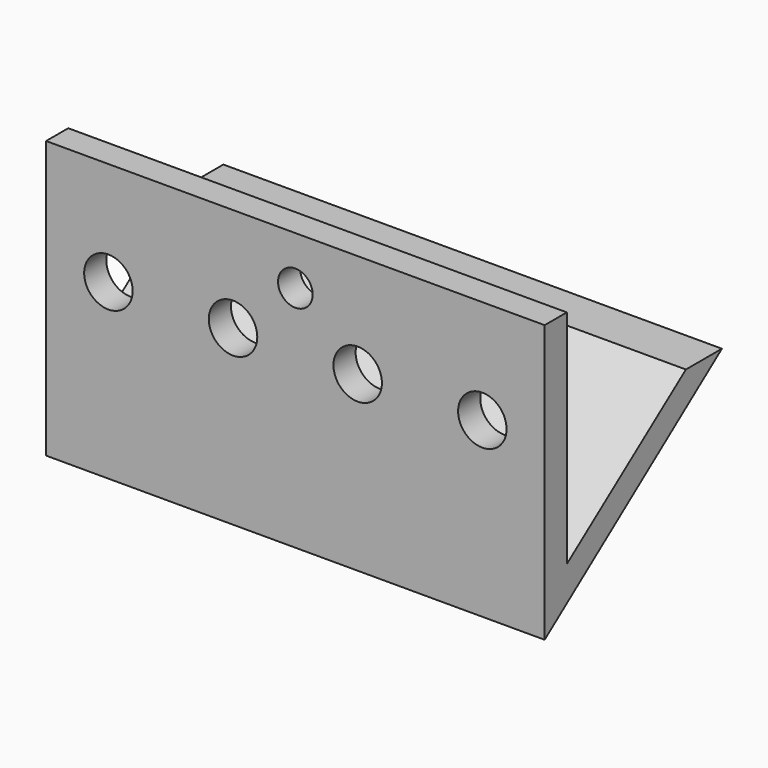
from build123d import *

# Parameters (mm, degrees)
F0_W     = 72
F0_H     = 40
F0_R     = 3.5
F0_R_2   = 2.5
F1_DEPTH = 4
F3_DEPTH = 72
F5_DEPTH = 72


with BuildPart() as f1:
    # F0 (on Front) → F1 (new body)
    with BuildSketch(Plane.XZ):
        with Locations((0, -5)):
            Rectangle(F0_W, F0_H)
        with Locations((-27, 0)):
            Circle(F0_R, mode=Mode.SUBTRACT)
        with Locations((-9, 0)):
            Circle(F0_R, mode=Mode.SUBTRACT)
        with Locations((9, 0)):
            Circle(F0_R, mode=Mode.SUBTRACT)
        with Locations((27, 0)):
            Circle(F0_R, mode=Mode.SUBTRACT)
        with Locations((0, 8)):
            Circle(F0_R_2, mode=Mode.SUBTRACT)
    extrude(amount=F1_DEPTH)

    # F2 (on face) → F3 (cut)
    with BuildSketch(Plane.YZ.offset(36)):
        Polygon((0, -22), (-4, -25), (0, -25), align=None)
    extrude(amount=-F3_DEPTH, mode=Mode.SUBTRACT)

    # F4 (on face) → F5 (join)
    with BuildSketch(Plane.YZ.offset(36)):
        Polygon((0, -17), (0, -22), (28, -1), (21.5, -1), align=None)
    extrude(amount=-F5_DEPTH)


solid = f1.part
